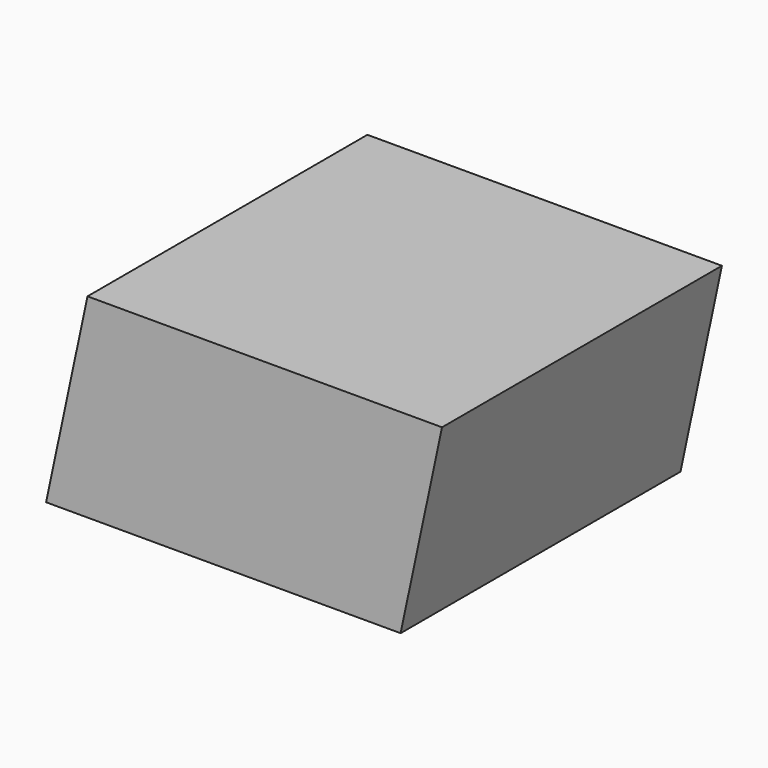
from build123d import *

# Parameters (mm, degrees)
F1_DEPTH = 76.2


with BuildPart() as f1:
    # F0 (on Front) → F1 (new body)
    with BuildSketch(Plane.XZ):
        Polygon((-55.736559, 14.292228), (-55.736559, 56.710228), (-64.756478, 14.292228), align=None)
        Polygon((21.479441, 56.710228), (-55.736559, 56.710228), (-55.736559, 14.292228), (12.459522, 14.292228), align=None)
    extrude(amount=F1_DEPTH)


solid = f1.part
